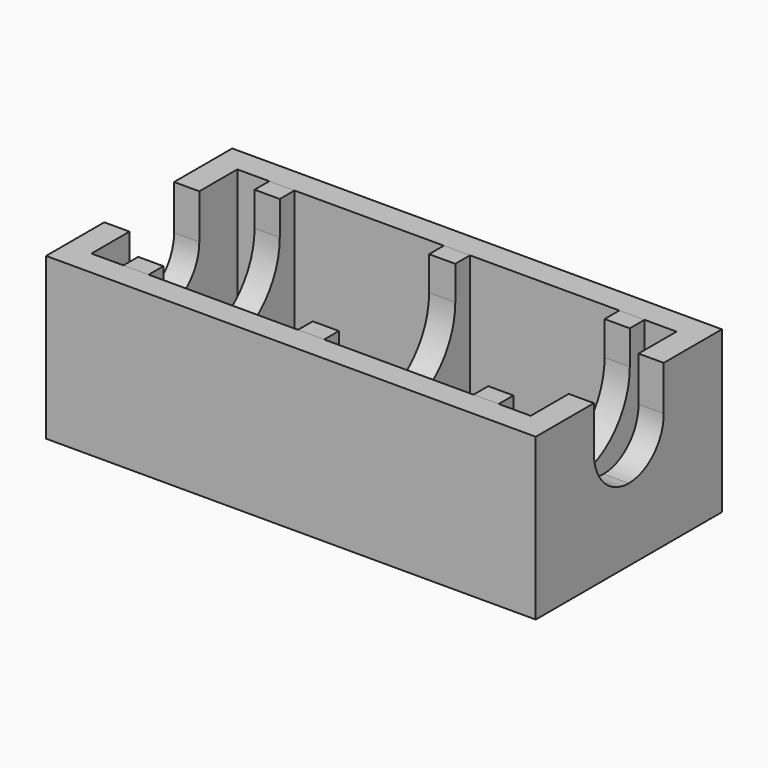
from build123d import *

# Parameters (mm, degrees)
F0_W     = 3.3
F0_H     = 18.8
F1_DEPTH = 3
F0_W_2   = 15.4
F0_W_3   = 2.6
F2_DEPTH = 16.6
F0_W_4   = 2.7
F4_DEPTH = 47.901
F0_W_5   = 50.5
F0_H_2   = 24
F5_DEPTH = 16.6
F6_DEPTH = 50.501


with BuildPart() as f1:
    # F0 (on Top) → F1 (new body)
    with BuildSketch(Plane.XY):
        with Locations((4.25, -57)):
            Rectangle(F0_W, F0_H)
    extrude(amount=F1_DEPTH)


with BuildPart() as f1b:
    # F0 (on Top) → F1, piece 2 (new body)
    with BuildSketch(Plane.XY):
        with Locations((16.2, -57)):
            Rectangle(F0_W_2, F0_H)
    extrude(amount=F1_DEPTH)


with BuildPart() as f1c:
    # F0 (on Top) → F1, piece 3 (new body)
    with BuildSketch(Plane.XY):
        with Locations((34.3, -57)):
            Rectangle(F0_W_2, F0_H)
    extrude(amount=F1_DEPTH)


with BuildPart() as f1d:
    # F0 (on Top) → F1, piece 4 (new body)
    with BuildSketch(Plane.XY):
        with Locations((46.25, -57)):
            Rectangle(F0_W, F0_H)
    extrude(amount=F1_DEPTH)


with BuildPart() as f2:
    # F0 (on Top) → F2 (new body)
    with BuildSketch(Plane.XY):
        with Locations((43.3, -57)):
            Rectangle(F0_W_3, F0_H)
    extrude(amount=F2_DEPTH)


with BuildPart() as f2b:
    # F0 (on Top) → F2, piece 2 (new body)
    with BuildSketch(Plane.XY):
        with Locations((25.25, -57)):
            Rectangle(F0_W_4, F0_H)
    extrude(amount=F2_DEPTH)


with BuildPart() as f2c:
    # F0 (on Top) → F2, piece 3 (new body)
    with BuildSketch(Plane.XY):
        with Locations((7.2, -57)):
            Rectangle(F0_W_3, F0_H)
    extrude(amount=F2_DEPTH)


with BuildPart() as f4_tool:
    # F3 (on Right) → F4 (new body, through all)
    with BuildSketch(Plane.YZ):
        with BuildLine():
            Line((-64.5, 16.6), (-64.5, 13.1))
            ThreePointArc((-64.5, 13.1), (-64.2800883187, 14.9028627436), (-63.6332495807, 16.6))
            Line((-63.6332495807, 16.6), (-64.5, 16.6))
        make_face()
        with BuildLine():
            ThreePointArc((-64.5, 13.1), (-62.3033008589, 7.7966991411), (-57, 5.6))
            Line((-57, 5.6), (-57, 7.5))
            ThreePointArc((-57, 7.5), (-60.1819805153, 8.8180194847), (-61.5, 12))
            Line((-61.5, 12), (-61.5, 16.6))
            Line((-61.5, 16.6), (-63.6332495807, 16.6))
            ThreePointArc((-63.6332495807, 16.6), (-64.2800883187, 14.9028627436), (-64.5, 13.1))
        make_face()
        with BuildLine():
            Line((-57, 7.5), (-57, 5.6))
            ThreePointArc((-57, 5.6), (-51.6966991411, 7.7966991411), (-49.5, 13.1))
            ThreePointArc((-49.5, 13.1), (-49.7199116813, 14.9028627436), (-50.3667504193, 16.6))
            Line((-50.3667504193, 16.6), (-52.5, 16.6))
            Line((-52.5, 16.6), (-52.5, 12))
            ThreePointArc((-52.5, 12), (-53.8180194847, 8.8180194847), (-57, 7.5))
        make_face()
        with BuildLine():
            Line((-49.5, 13.1), (-49.5, 16.6))
            Line((-49.5, 16.6), (-50.3667504193, 16.6))
            ThreePointArc((-50.3667504193, 16.6), (-49.7199116813, 14.9028627436), (-49.5, 13.1))
        make_face()
        with BuildLine():
            ThreePointArc((-61.5, 12), (-60.1819805153, 15.1819805153), (-57, 16.5))
            Line((-57, 16.5), (-57, 16.6))
            Line((-57, 16.6), (-61.5, 16.6))
            Line((-61.5, 16.6), (-61.5, 12))
        make_face()
        with BuildLine():
            ThreePointArc((-61.5, 12), (-60.1819805153, 8.8180194847), (-57, 7.5))
            Line((-57, 7.5), (-57, 16.5))
            ThreePointArc((-57, 16.5), (-60.1819805153, 15.1819805153), (-61.5, 12))
        make_face()
        with BuildLine():
            Line((-57, 16.5), (-57, 7.5))
            ThreePointArc((-57, 7.5), (-53.8180194847, 8.8180194847), (-52.5, 12))
            ThreePointArc((-52.5, 12), (-53.8180194847, 15.1819805153), (-57, 16.5))
        make_face()
        with BuildLine():
            Line((-57, 16.6), (-57, 16.5))
            ThreePointArc((-57, 16.5), (-53.8180194847, 15.1819805153), (-52.5, 12))
            Line((-52.5, 12), (-52.5, 16.6))
            Line((-52.5, 16.6), (-57, 16.6))
        make_face()
    extrude(amount=F4_DEPTH)


with BuildPart() as f2_1:
    add(f2.part)

    # F4: cut by f4_tool
    add(f4_tool.part, mode=Mode.SUBTRACT)


with BuildPart() as f2b_1:
    add(f2b.part)

    # F4: cut by f4_tool
    add(f4_tool.part, mode=Mode.SUBTRACT)


with BuildPart() as f2c_1:
    add(f2c.part)

    # F4: cut by f4_tool
    add(f4_tool.part, mode=Mode.SUBTRACT)


with BuildPart() as f5:
    # F0 (on Top) → F5 (new body)
    with BuildSketch(Plane.XY):
        with Locations((25.25, -57)):
            Rectangle(F0_W_5, F0_H_2)
        Polygon((2.6, -66.4), (2.6, -47.6), (5.9, -47.6), (8.5, -47.6), (23.9, -47.6), (26.6, -47.6), (42, -47.6), (44.6, -47.6), (47.9, -47.6), (47.9, -66.4), (44.6, -66.4), (42, -66.4), (26.6, -66.4), (23.9, -66.4), (8.5, -66.4), (5.9, -66.4), align=None, mode=Mode.SUBTRACT)
    extrude(amount=F5_DEPTH)

    # F3 (on Right) → F6 (cut, through all)
    with BuildSketch(Plane.YZ):
        with BuildLine():
            ThreePointArc((-61.5, 12), (-60.1819805153, 15.1819805153), (-57, 16.5))
            Line((-57, 16.5), (-57, 16.6))
            Line((-57, 16.6), (-61.5, 16.6))
            Line((-61.5, 16.6), (-61.5, 12))
        make_face()
        with BuildLine():
            ThreePointArc((-61.5, 12), (-60.1819805153, 8.8180194847), (-57, 7.5))
            Line((-57, 7.5), (-57, 16.5))
            ThreePointArc((-57, 16.5), (-60.1819805153, 15.1819805153), (-61.5, 12))
        make_face()
        with BuildLine():
            Line((-57, 16.5), (-57, 7.5))
            ThreePointArc((-57, 7.5), (-53.8180194847, 8.8180194847), (-52.5, 12))
            ThreePointArc((-52.5, 12), (-53.8180194847, 15.1819805153), (-57, 16.5))
        make_face()
        with BuildLine():
            Line((-57, 16.6), (-57, 16.5))
            ThreePointArc((-57, 16.5), (-53.8180194847, 15.1819805153), (-52.5, 12))
            Line((-52.5, 12), (-52.5, 16.6))
            Line((-52.5, 16.6), (-57, 16.6))
        make_face()
    extrude(amount=F6_DEPTH, mode=Mode.SUBTRACT)


solid = Compound([f1.part, f1b.part, f1c.part, f1d.part, f2_1.part, f2b_1.part, f2c_1.part, f5.part])
